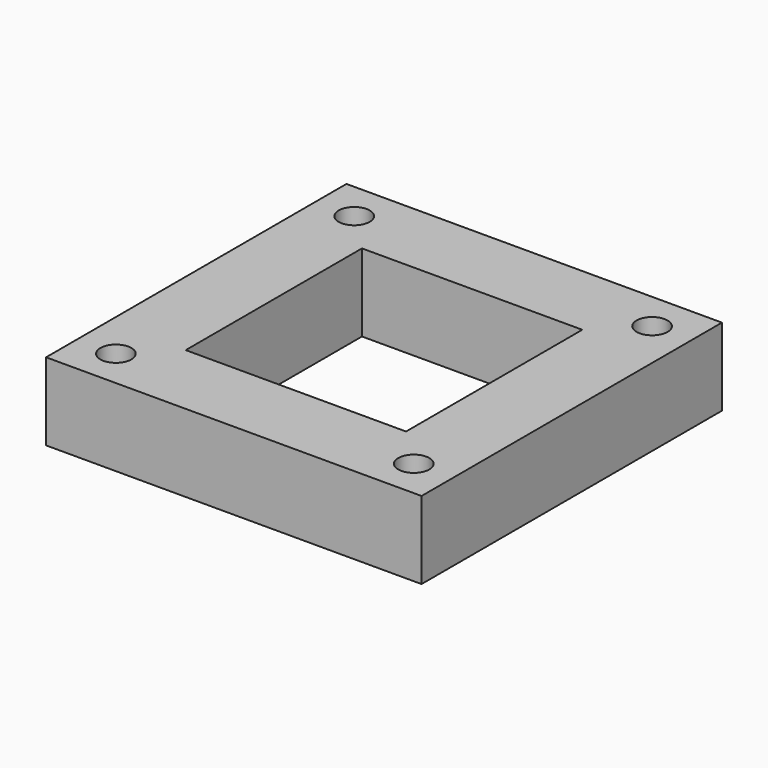
from build123d import *

# Parameters (mm, degrees)
F0_W     = 61.468017
F0_H     = 61.468017
F0_W_2   = 36.068017
F0_H_2   = 36.068017
F1_DEPTH = 12.7
F2_R     = 2.54
F3_DEPTH = 11.43


with BuildPart() as f1:
    # F0 (on Top) → F1 (new body)
    with BuildSketch(Plane.XY):
        with Locations((7.701496, 11.267003)):
            Rectangle(F0_W, F0_H)
        with Locations((7.701497, 11.267004)):
            Rectangle(F0_W_2, F0_H_2, mode=Mode.SUBTRACT)
    extrude(amount=F1_DEPTH)

    # F2 (on face) → F3 (cut)
    with BuildSketch(Plane.XY.offset(12.7)):
        with Locations((-16.682512, 35.651012)):
            Circle(F2_R)
        with Locations((32.085505, 35.651012)):
            Circle(F2_R)
        with Locations((32.085505, -13.117005)):
            Circle(F2_R)
        with Locations((-16.682512, -13.117005)):
            Circle(F2_R)
    extrude(amount=-F3_DEPTH, mode=Mode.SUBTRACT)


solid = f1.part
